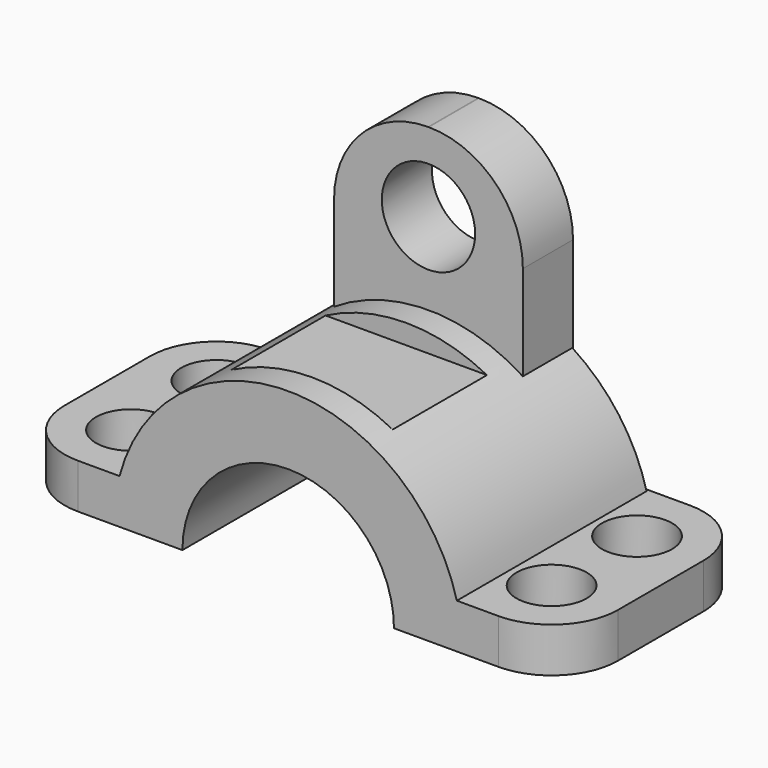
from build123d import *

# Parameters (mm, degrees)
SKETCH_R        = 7.84144
PAD_DEPTH       = 10
SKETCH001_W     = 42.19746
SKETCH001_H     = 14.012741
PAD001_DEPTH    = 65
FILLET_R        = 21
SKETCH002_R     = 10.429862
POCKET_DEPTH    = 14.345294
PAD002_DEPTH    = 53
POCKET001_DEPTH = 53.530348
SKETCH005_W     = 26.334992
SKETCH005_H     = 10.429696
POCKET002_DEPTH = 82.9392


with BuildPart() as part:
    # Sketch → Pad (new body)
    with BuildSketch(Plane.XY):
        with BuildLine():
            ThreePointArc((-47.004433, 26.764674), (-57.494388, 22.419592), (-61.83947, 11.929637))
            Line((-61.83947, -11.929637), (-61.83947, 11.929637))
            ThreePointArc((-61.83947, -11.929637), (-57.494388, -22.419592), (-47.004433, -26.764674))
            Line((47.004433, -26.764674), (-47.004433, -26.764674))
            ThreePointArc((47.004433, -26.764674), (57.494388, -22.419592), (61.83947, -11.929637))
            Line((61.83947, 11.929637), (61.83947, -11.929637))
            ThreePointArc((61.83947, 11.929637), (57.494388, 22.419592), (47.004433, 26.764674))
            Line((-47.004433, 26.764674), (47.004433, 26.764674))
        make_face()
        with Locations((-47.004433, 11.929637)):
            Circle(SKETCH_R, mode=Mode.SUBTRACT)
        with Locations((-47.004433, -11.929637)):
            Circle(SKETCH_R, mode=Mode.SUBTRACT)
        with Locations((47.004433, 11.929637)):
            Circle(SKETCH_R, mode=Mode.SUBTRACT)
        with Locations((47.004433, -11.929637)):
            Circle(SKETCH_R, mode=Mode.SUBTRACT)
    extrude(amount=PAD_DEPTH)

    # Sketch001 (on Face14 of Pad) → Pad001 (join)
    with BuildSketch(Plane.XY.offset(10)):
        with Locations((0, 19.426751)):
            Rectangle(SKETCH001_W, SKETCH001_H)
    extrude(amount=PAD001_DEPTH)

    # Fillet
    fillet_edges = [part.edges().sort_by_distance(p)[0] for p in [
        (21.09873, 19.426751, 75),
        (-21.09873, 19.426751, 75),
    ]]
    fillet(fillet_edges, radius=FILLET_R)

    # Sketch002 (on Face5 of Fillet) → Pocket (cut, through all)
    with BuildSketch(Plane.XZ.offset(-12.42038)):
        with Locations((0, 57.346222)):
            Circle(SKETCH002_R)
    extrude(amount=-POCKET_DEPTH, mode=Mode.SUBTRACT)

    # Sketch003 (on Face16 of Pocket) → Pad002 (join)
    with BuildSketch(Plane.XZ.offset(26.764674)):
        with BuildLine():
            ThreePointArc((39.000746, 0), (0, 39.000746), (-39.000746, 0))
            Line((-39.000746, 0), (39.000746, 0))
        make_face()
    extrude(amount=-PAD002_DEPTH)

    # Sketch004 (on Face24 of Pad002) → Pocket001 (cut, through all)
    with BuildSketch(Plane.XZ.offset(26.764674)):
        with BuildLine():
            ThreePointArc((23.640903, -0.107932), (0, 23.641149), (-23.640903, -0.107932))
            Line((-23.640903, -0.107932), (23.640903, -0.107932))
        make_face()
    extrude(amount=-POCKET001_DEPTH, mode=Mode.SUBTRACT)

    # Sketch005 (on DatumPlane) → Pocket002 (cut, through all)
    with BuildSketch(Plane.YZ.offset(21.09873)):
        with Locations((-6.951761, 39.794678)):
            Rectangle(SKETCH005_W, SKETCH005_H)
    extrude(amount=-POCKET002_DEPTH, mode=Mode.SUBTRACT)


solid = part.part
